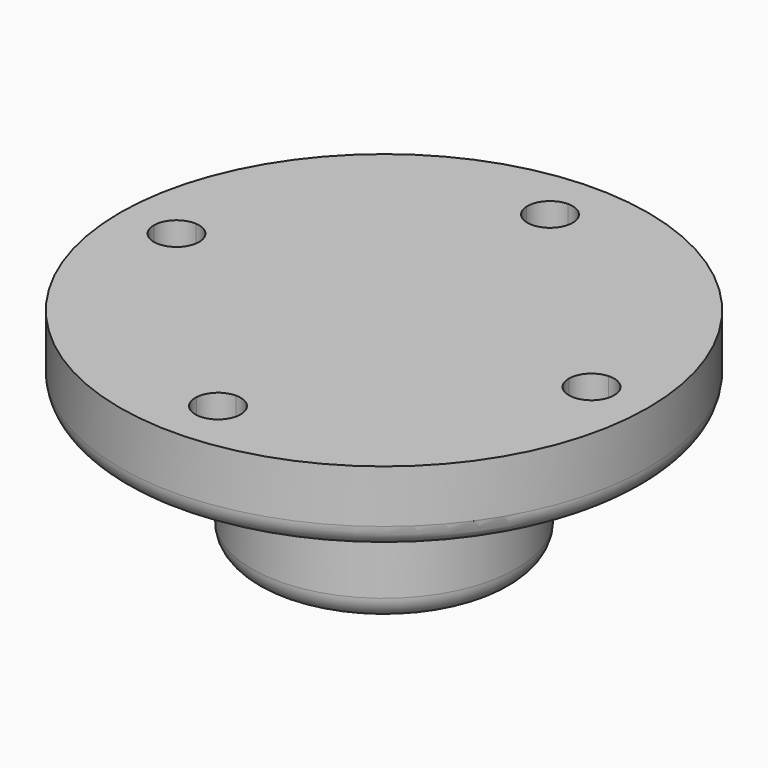
from build123d import *

# Parameters (mm, degrees)
F3_DEPTH = 55.001


with BuildPart() as f1:
    # F0 (on Front) → F1 (revolve)
    with BuildSketch(Plane.XZ):
        with BuildLine():
            Line((20.8323138058, 29.7103659064), (-49.1676861942, 29.7103659064))
            Line((-49.1676861942, 29.7103659064), (-49.1676861942, 15.7103659064))
            ThreePointArc((-49.1676861942, 15.7103659064), (-47.4103268813, 11.4677252192), (-43.1676861942, 9.7103659064))
            Line((-43.1676861942, 9.7103659064), (-20.1676861942, 9.7103659064))
            ThreePointArc((-20.1676861942, 9.7103659064), (-15.9250455071, 7.9530065935), (-14.1676861942, 3.7103659064))
            Line((-14.1676861942, 3.7103659064), (-14.1676861942, -19.2896340936))
            ThreePointArc((-14.1676861942, -19.2896340936), (-12.4103268813, -23.5322747808), (-8.1676861942, -25.2896340936))
            Line((-8.1676861942, -25.2896340936), (20.8323138058, -25.2896340936))
            Line((20.8323138058, -25.2896340936), (20.8323138058, 29.7103659064))
        make_face()
    revolve(axis=Axis((20.8323138058, 0, 2.2103659064), (0, 0, -1)))

    # F2 (on face) → F3 (cut, through all)
    with BuildSketch(Plane.XY.offset(29.7103659064)):
        with BuildLine():
            ThreePointArc((20.8323138058, 55), (23.8323138058, 54.918120871), (26.8233815372, 54.6727272727))
            ThreePointArc((26.8233815372, 54.6727272727), (26.830080323, 54.8363027005), (26.8323138058, 55))
            ThreePointArc((26.8323138058, 55), (25.0749544929, 59.2426406871), (20.8323138058, 61))
            Line((20.8323138058, 61), (20.8323138058, 55))
        make_face()
        with BuildLine():
            ThreePointArc((14.8412460744, 54.6727272727), (17.8323138058, 54.918120871), (20.8323138058, 55))
            Line((20.8323138058, 55), (20.8323138058, 61))
            ThreePointArc((20.8323138058, 61), (16.475500959, 59.1253099057), (14.8412460744, 54.6727272727))
        make_face()
        with BuildLine():
            ThreePointArc((14.8412460744, 54.6727272727), (16.7070039001, 50.6431871532), (20.8323138058, 49))
            Line((20.8323138058, 49), (20.8323138058, 55))
            ThreePointArc((20.8323138058, 55), (17.8323138058, 54.918120871), (14.8412460744, 54.6727272727))
        make_face()
        with BuildLine():
            ThreePointArc((20.8323138058, 49), (24.9576237115, 50.6431871532), (26.8233815372, 54.6727272727))
            ThreePointArc((26.8233815372, 54.6727272727), (23.8323138058, 54.918120871), (20.8323138058, 55))
            Line((20.8323138058, 55), (20.8323138058, 49))
        make_face()
        with BuildLine():
            ThreePointArc((-33.8404134669, -5.9910677314), (-29.8108733474, -4.1253099057), (-28.1676861942, 0))
            Line((-28.1676861942, 0), (-34.1676861942, 0))
            ThreePointArc((-34.1676861942, 0), (-34.0858070652, -3), (-33.8404134669, -5.9910677314))
        make_face()
        with BuildLine():
            Line((-34.1676861942, 0), (-28.1676861942, 0))
            ThreePointArc((-28.1676861942, 0), (-29.8108733474, 4.1253099057), (-33.8404134669, 5.9910677314))
            ThreePointArc((-33.8404134669, 5.9910677314), (-34.0858070652, 3), (-34.1676861942, 0))
        make_face()
        with BuildLine():
            Line((-40.1676861942, 0), (-34.1676861942, 0))
            ThreePointArc((-34.1676861942, 0), (-34.0858070652, 3), (-33.8404134669, 5.9910677314))
            ThreePointArc((-33.8404134669, 5.9910677314), (-38.2929960999, 4.3568128468), (-40.1676861942, 0))
        make_face()
        with BuildLine():
            ThreePointArc((-33.8404134669, -5.9910677314), (-34.0858070652, -3), (-34.1676861942, 0))
            Line((-34.1676861942, 0), (-40.1676861942, 0))
            ThreePointArc((-40.1676861942, 0), (-38.2929960999, -4.3568128468), (-33.8404134669, -5.9910677314))
        make_face()
        with BuildLine():
            Line((20.8323138058, -61), (20.8323138058, -55))
            ThreePointArc((20.8323138058, -55), (17.8323138058, -54.918120871), (14.8412460744, -54.6727272727))
            ThreePointArc((14.8412460744, -54.6727272727), (16.475500959, -59.1253099057), (20.8323138058, -61))
        make_face()
        with BuildLine():
            Line((20.8323138058, -55), (20.8323138058, -49))
            ThreePointArc((20.8323138058, -49), (16.7070039001, -50.6431871532), (14.8412460744, -54.6727272727))
            ThreePointArc((14.8412460744, -54.6727272727), (17.8323138058, -54.918120871), (20.8323138058, -55))
        make_face()
        with BuildLine():
            ThreePointArc((26.8323138058, -55), (26.830080323, -54.8363027005), (26.8233815372, -54.6727272727))
            ThreePointArc((26.8233815372, -54.6727272727), (23.8323138058, -54.918120871), (20.8323138058, -55))
            Line((20.8323138058, -55), (20.8323138058, -61))
            ThreePointArc((20.8323138058, -61), (25.0749544929, -59.2426406871), (26.8323138058, -55))
        make_face()
        with BuildLine():
            ThreePointArc((20.8323138058, -55), (23.8323138058, -54.918120871), (26.8233815372, -54.6727272727))
            ThreePointArc((26.8233815372, -54.6727272727), (24.9576237115, -50.6431871532), (20.8323138058, -49))
            Line((20.8323138058, -49), (20.8323138058, -55))
        make_face()
        with BuildLine():
            Line((81.8323138058, 0), (75.8323138058, 0))
            ThreePointArc((75.8323138058, 0), (75.7504346768, -3), (75.5050410785, -5.9910677314))
            ThreePointArc((75.5050410785, -5.9910677314), (79.9576237115, -4.3568128468), (81.8323138058, 0))
        make_face()
        with BuildLine():
            ThreePointArc((75.5050410785, -5.9910677314), (75.7504346768, -3), (75.8323138058, 0))
            Line((75.8323138058, 0), (69.8323138058, 0))
            ThreePointArc((69.8323138058, 0), (71.475500959, -4.1253099057), (75.5050410785, -5.9910677314))
        make_face()
        with BuildLine():
            Line((69.8323138058, 0), (75.8323138058, 0))
            ThreePointArc((75.8323138058, 0), (75.7504346768, 3), (75.5050410785, 5.9910677314))
            ThreePointArc((75.5050410785, 5.9910677314), (71.475500959, 4.1253099057), (69.8323138058, 0))
        make_face()
        with BuildLine():
            ThreePointArc((75.5050410785, 5.9910677314), (75.7504346768, 3), (75.8323138058, 0))
            Line((75.8323138058, 0), (81.8323138058, 0))
            ThreePointArc((81.8323138058, 0), (79.9576237115, 4.3568128468), (75.5050410785, 5.9910677314))
        make_face()
    extrude(amount=-F3_DEPTH, mode=Mode.SUBTRACT)


solid = f1.part
